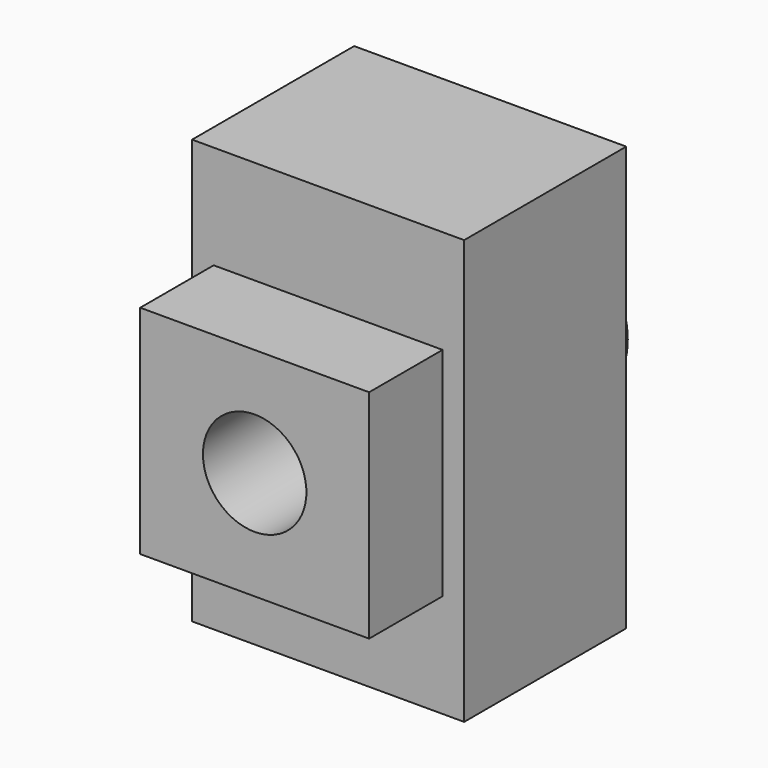
from build123d import *

# Parameters (mm, degrees)
F0_R     = 25
F1_DEPTH = 48
F2_W     = 66.378064
F2_H     = 62.903502
F3_DEPTH = 56
F4_W     = 78.902334
F4_H     = 58.748622
F5_DEPTH = 61.5
F6_R     = 15
F7_DEPTH = 105.3


with BuildPart() as f1:
    # F0 (on Front) → F1 (new body)
    with BuildSketch(Plane.XZ):
        Circle(F0_R)
    extrude(amount=-F1_DEPTH)

    # F2 (on Front) → F3 (join)
    with BuildSketch(Plane.XZ):
        Rectangle(F2_W, F2_H)
    extrude(amount=F3_DEPTH)

    # F4 (on Top) → F5 (join, symmetric)
    with BuildSketch(Plane.XY):
        Rectangle(F4_W, F4_H)
    extrude(amount=F5_DEPTH, both=True)

    # F6 (on face) → F7 (cut)
    with BuildSketch(Plane(origin=(0, 48, 0), x_dir=(-1, 0, 0), z_dir=(0, 1, 0))):
        Circle(F6_R)
    extrude(amount=-F7_DEPTH, mode=Mode.SUBTRACT)


solid = f1.part
